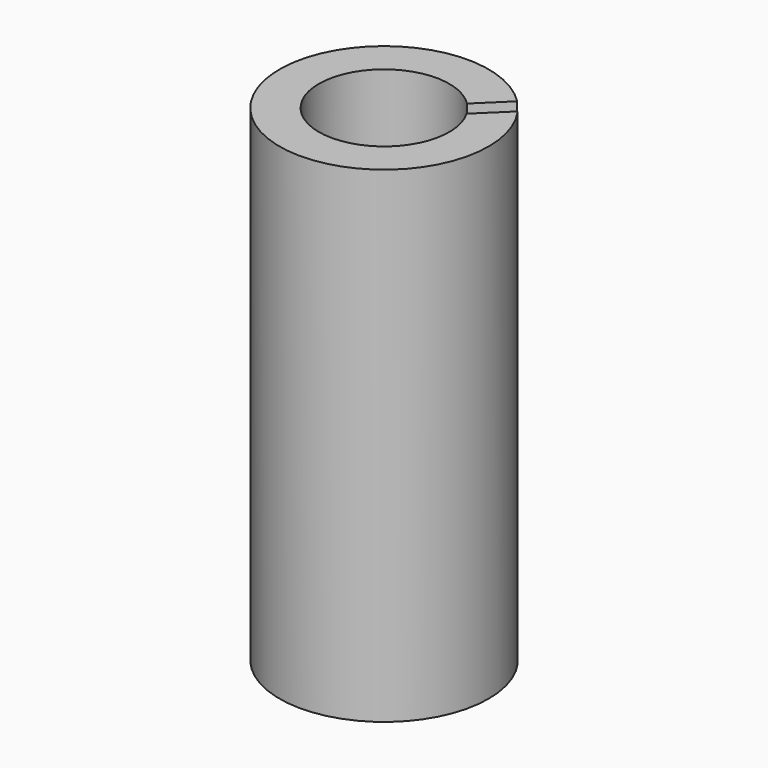
from build123d import *

# Parameters (mm, degrees)
SKETCH_R     = 6.45
SKETCH_R_2   = 4.025
PAD_DEPTH    = 30
POCKET_DEPTH = 30


with BuildPart() as part:
    # Sketch (on XY_Plane001 of Origin002) → Pad (new body)
    with BuildSketch(Plane.XY):
        with Locations((-0.092284, 0)):
            Circle(SKETCH_R)
        with Locations((-0.092284, 0)):
            Circle(SKETCH_R_2, mode=Mode.SUBTRACT)
    extrude(amount=PAD_DEPTH)

    # Sketch001 (on Face4 of Pad) → Pocket (cut)
    with BuildSketch(Plane.XY.offset(30)):
        Polygon((5.733733, 4.290182), (5.000528, 5.043754), (1.954842, 2.080387), (2.688047, 1.326815), align=None)
    extrude(amount=-POCKET_DEPTH, mode=Mode.SUBTRACT)


solid = part.part
